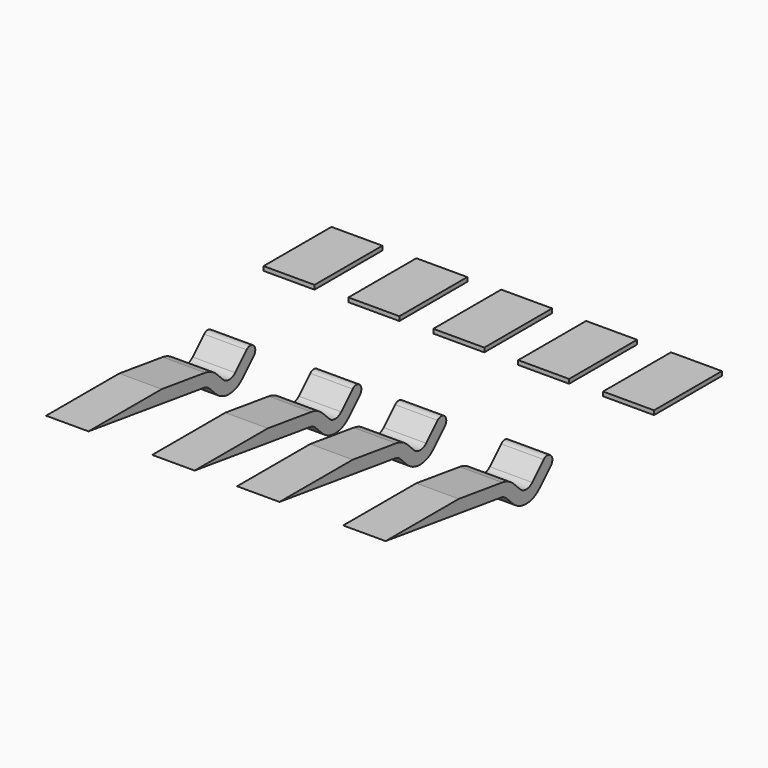
from build123d import *

# Parameters (mm, degrees)
EXTRUDE010_DEPTH = 1
BOX053_W         = 1.2
BOX053_H         = 2
BOX053_DEPTH     = 0.1
ARRAY015_X_COUNT = 5
ARRAY015_X_PITCH = 2


with BuildPart() as extrude010:
    # Sketch011 → Extrude010 (new body)
    with BuildSketch(Plane.YZ):
        with BuildLine():
            Line((1.279699, -0.17985), (0, 0))
            Line((0, 0), (-2.155589, 0))
            Line((-2.155589, 0), (1.237947, -0.47693))
            ThreePointArc((1.408328, -0.561879), (1.330055, -0.505531), (1.237947, -0.47693))
            Line((1.408328, -0.561879), (1.596448, -0.749999))
            ThreePointArc((1.596448, -0.749999), (1.985356, -0.91109), (2.374264, -0.75))
            Line((2.374264, -0.75), (2.712132, -0.412132))
            ThreePointArc((2.712132, -0.412132), (2.712132, -0.2), (2.5, -0.2))
            Line((2.162133, -0.537867), (2.5, -0.2))
            ThreePointArc((1.80858, -0.537867), (1.985356, -0.61109), (2.162133, -0.537867))
            Line((1.62046, -0.349747), (1.80858, -0.537867))
            ThreePointArc((1.62046, -0.349747), (1.463914, -0.23705), (1.279699, -0.17985))
        make_face()
    extrude(amount=EXTRUDE010_DEPTH)


with BuildPart() as extrude010_1:
    # Extrude010 placement: moved
    add(extrude010.part.moved(Location((-4, 0, 0))))


with BuildPart() as clone021:
    # Clone021 base: copy of Extrude010
    add(extrude010_1.part)


with BuildPart() as clone021_1:
    # Clone021 placement: moved
    add(clone021.part.moved(Location((2.5, 0, 0))))


with BuildPart() as clone022:
    # Clone022 base: copy of Extrude010
    add(extrude010_1.part)


with BuildPart() as clone022_1:
    # Clone022 placement: moved
    add(clone022.part.moved(Location((4.5, 0, 0))))


with BuildPart() as clone023:
    # Clone023 base: copy of Extrude010
    add(extrude010_1.part)


with BuildPart() as clone023_1:
    # Clone023 placement: moved
    add(clone023.part.moved(Location((7, 0, 0))))


with BuildPart() as fusion040:
    # Fusion040 base: copy of Extrude010
    add(extrude010_1.part)

    # Fusion040: union Clone021, Clone022, Clone023
    add(clone021_1.part)
    add(clone022_1.part)
    add(clone023_1.part)


with BuildPart() as fusion040_1:
    # Fusion040 placement: moved
    add(fusion040.part.moved(Location((0, 10, 12.6))))


with BuildPart() as pins_lower_connector:
    # Box053 → Box053 (new body)
    with BuildSketch(Plane(origin=(-4.6, 15, 12.5), x_dir=(1, 0, 0), z_dir=(0, 0, 1))):
        with Locations((0.6, 1)):
            Rectangle(BOX053_W, BOX053_H)
    extrude(amount=BOX053_DEPTH)

    # Array015 X: Pins (Lower Connector) ×5


with BuildPart() as pins_lower_connector_1:
    add(pins_lower_connector.part)
    with Locations(*[(i * ARRAY015_X_PITCH, 0, 0) for i in range(1, ARRAY015_X_COUNT)]):
        add(pins_lower_connector.part)

    # Fusion041: union Fusion040
    add(fusion040_1.part)


with BuildPart() as pins_lower_connector_2:
    # Clone025 placement: moved
    add(pins_lower_connector_1.part.moved(Location((0, 0, -8.4))))


solid = pins_lower_connector_2.part
